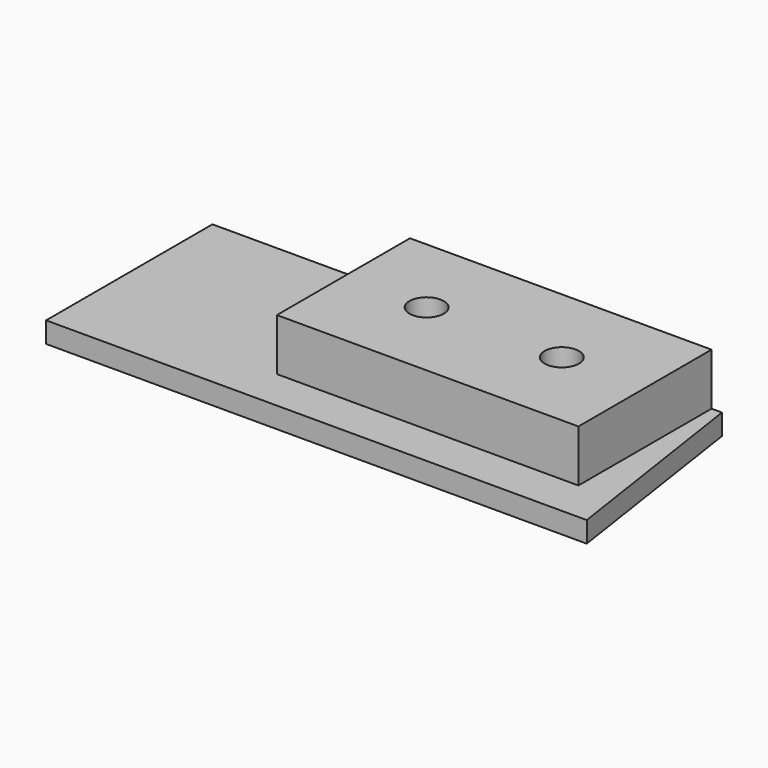
from build123d import *

# Parameters (mm, degrees)
F1_DEPTH = 2
F2_R     = 5
F3_DEPTH = 1
F4_W     = 29
F4_H     = 16
F5_DEPTH = 5
F7_D     = 3.3
F7_DEPTH = 5
F7_TIP   = 0.9914200214


with BuildPart() as f1:
    # F0 (on Top) → F1 (new body)
    with BuildSketch(Plane.XY):
        Polygon((23.2306010574, 9.4812756346), (-25.7693989426, 9.4812756346), (-25.7693989426, -10.5187243654), (26.2306010574, -10.5187243654), align=None)
    extrude(amount=F1_DEPTH)

    # F2 (on face) → F3 (cut)
    with BuildSketch(Plane(origin=(0, 0, 0), x_dir=(1, 0, 0), z_dir=(0, 0, -1))):
        with Locations((19.2306010574, 3.5187243654)):
            Circle(F2_R)
        with Locations((6.5306010574, 2.8187243654)):
            Circle(F2_R)
        with Locations((-6.1693989426, 2.2187243654)):
            Circle(F2_R)
        with Locations((-18.8693989426, 1.5187243654)):
            Circle(F2_R)
    extrude(amount=-F3_DEPTH, mode=Mode.SUBTRACT)

    # F4 (on face) → F5 (join)
    with BuildSketch(Plane.XY.offset(2)):
        with Locations((7.7306010574, 1.4812756346)):
            Rectangle(F4_W, F4_H)
    extrude(amount=F5_DEPTH)

    # F7
    with Locations(Plane.XY.offset(7)):
        with Locations((1.2306010574, 1.4812756346), (14.2306010574, 1.4812756346)):
            Hole(F7_D / 2, depth=F7_DEPTH)
            with Locations((0, 0, -(F7_DEPTH + F7_TIP / 2))):  # 118° drill point
                Cone(0, F7_D / 2, F7_TIP, mode=Mode.SUBTRACT)


solid = f1.part
